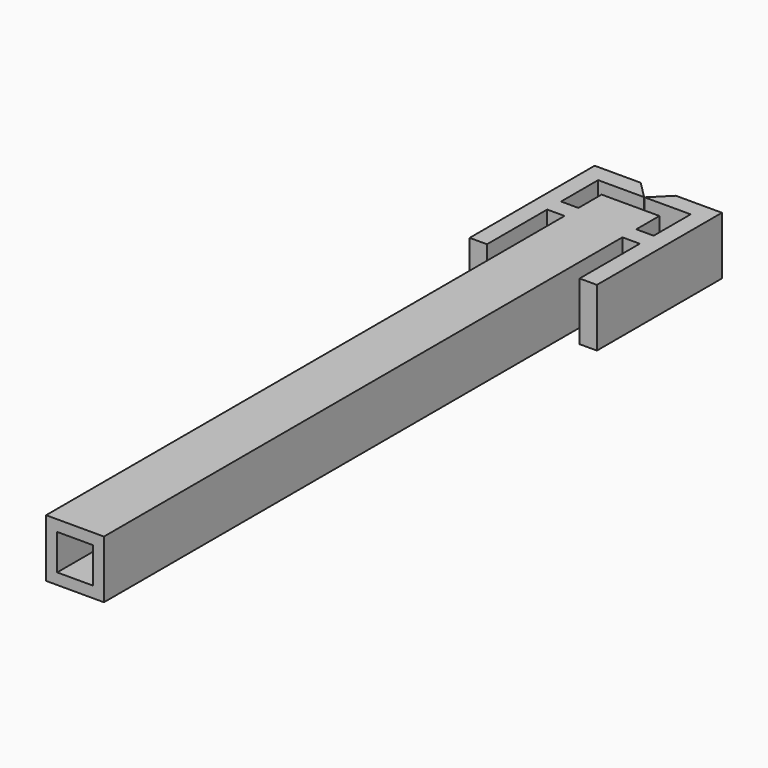
from build123d import *

# Parameters (mm, degrees)
F0_W     = 1.5
F0_H     = 6.5
F1_DEPTH = 5
F3_W     = 3.08
F3_H     = 3.08
F4_DEPTH = 60


with BuildPart() as f1:
    # F0 (on Top) → F1 (new body)
    with BuildSketch(Plane.XY):
        Polygon((-1.25, -30), (1.25, -30), (1.25, 26), (1.25, 27.5), (1.25, 30), (-1.25, 30), align=None)
        Polygon((1.25, 27.5), (1.25, 26), (2.75, 26), (4.25, 26), (4.25, 33), (0.27, 33), (-1.23, 31.5), (2.75, 31.5), (2.75, 27.5), align=None)
        with Locations((3.5, 22.75)):
            Rectangle(F0_W, F0_H)
    extrude(amount=F1_DEPTH)

    # F2: F1 across face


with BuildPart() as f1_1:
    add(f1.part)
    add(f1.part.mirror(Plane(origin=(-1.25, 0, 2.5), x_dir=(0, -1, 0), z_dir=(-1, 0, 0))))

    # F3 (on face) → F4 (cut, through all)
    with BuildSketch(Plane.XZ.offset(30)):
        with Locations((-1.25, 2.5)):
            Rectangle(F3_W, F3_H)
    extrude(amount=-F4_DEPTH, mode=Mode.SUBTRACT)


solid = f1_1.part
